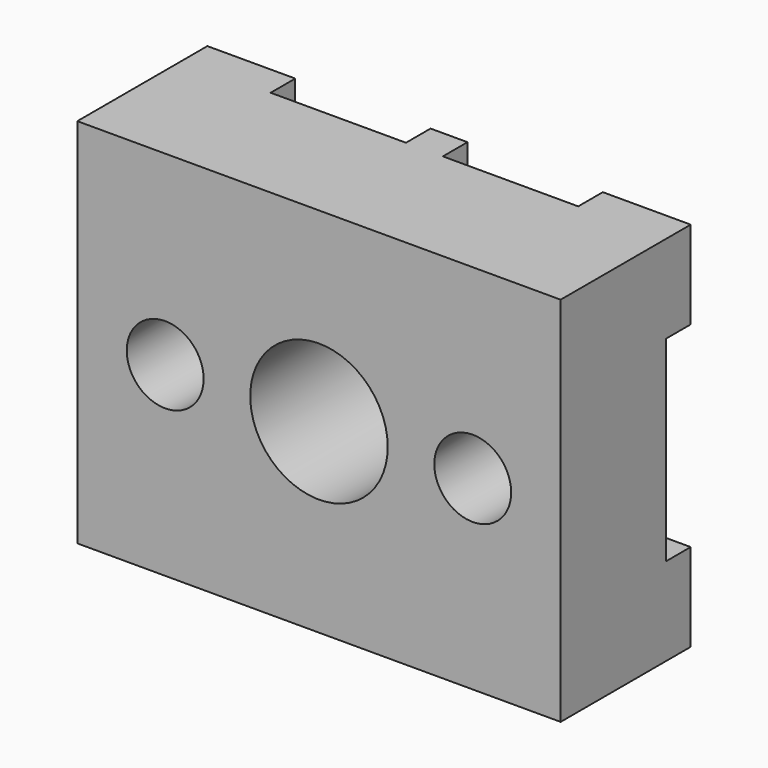
from build123d import *

# Parameters (mm, degrees)
F0_W     = 55
F0_H     = 42.3
F0_R     = 4.375
F0_R_2   = 7.825
F1_DEPTH = 15
F2_W     = 4.2
F2_H     = 4
F3_DEPTH = 3.5
F4_R     = 0.75


with BuildPart() as f1:
    # F0 (on Front) → F1 (new body)
    with BuildSketch(Plane.XZ):
        Rectangle(F0_W, F0_H)
        with Locations((-17.5, 0)):
            Circle(F0_R, mode=Mode.SUBTRACT)
        Circle(F0_R_2, mode=Mode.SUBTRACT)
        with Locations((17.5, 0)):
            Circle(F0_R, mode=Mode.SUBTRACT)
    extrude(amount=F1_DEPTH)

    # F2 (on face) → F3 (join)
    with BuildSketch(Plane(origin=(0, 0, 0), x_dir=(-1, 0, 0), z_dir=(0, 1, 0))):
        with Locations((0, 19.15)):
            Rectangle(F2_W, F2_H)
        with Locations((0, -19.15)):
            Rectangle(F2_W, F2_H)
        Polygon((-17.5, 17.15), (-17.5, 21.15), (-27.5, 21.15), (-27.5, 11.15), (-23.5, 11.15), (-23.5, 17.15), align=None)
        Polygon((-23.5, -11.15), (-27.5, -11.15), (-27.5, -21.15), (-17.5, -21.15), (-17.5, -17.15), (-23.5, -17.15), align=None)
        Polygon((27.5, 21.15), (17.5, 21.15), (17.5, 17.15), (23.5, 17.15), (23.5, 11.15), (27.5, 11.15), align=None)
        Polygon((27.5, -21.15), (27.5, -11.15), (23.5, -11.15), (23.5, -17.15), (17.5, -17.15), (17.5, -21.15), align=None)
    extrude(amount=F3_DEPTH)

    # F4
    f4_edges = [f1.edges().sort_by_distance(p)[0] for p in [
        (0, 3.5, -17.15),
        (0, 3.5, 17.15),
        (20.5, 3.5, 17.15),
        (23.5, 3.5, 14.15),
        (23.5, 3.5, -14.15),
        (20.5, 3.5, -17.15),
        (-20.5, 3.5, -17.15),
        (-23.5, 3.5, -14.15),
        (-23.5, 3.5, 14.15),
        (-20.5, 3.5, 17.15),
    ]]
    fillet(f4_edges, radius=F4_R)


solid = f1.part
